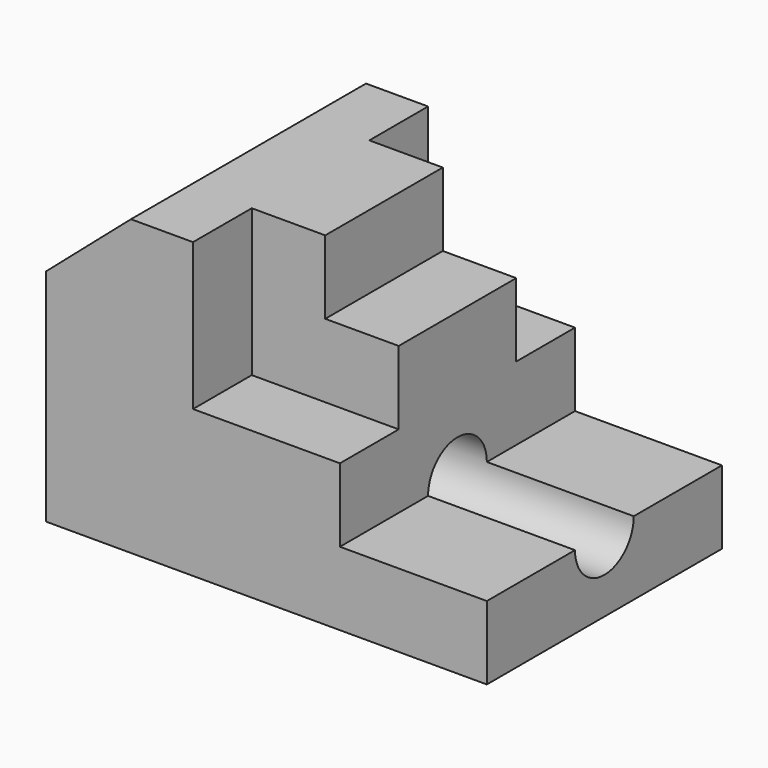
from build123d import *

# Parameters (mm, degrees)
F1_DEPTH = 50.8
F3_DEPTH = 12.7
F5_START = 38.1
F5_DEPTH = 12.701
F6_R     = 6.35
F7_DEPTH = 76.201


with BuildPart() as f1:
    # F0 (on Front) → F1 (new body)
    with BuildSketch(Plane.XZ):
        Polygon((0, 38.1), (0, 0), (76.2, 0), (76.2, 12.7), (50.8, 12.7), (50.8, 38.1), (38.1, 38.1), (38.1, 50.8), (14.6706935452, 50.8), align=None)
    extrude(amount=F1_DEPTH)

    # F2 (on Front) → F3 (cut)
    with BuildSketch(Plane.XZ):
        Polygon((38.1, 50.8), (25.4, 50.8), (25.4, 25.4), (50.8, 25.4), (50.8, 38.1), (38.1, 38.1), align=None)
    extrude(amount=F3_DEPTH, mode=Mode.SUBTRACT)

    # F4 (on Front) → F5 (cut)
    with BuildSketch(Plane.XZ.offset(F5_START)):
        Polygon((38.1, 50.8), (25.4, 50.8), (25.4, 25.4), (50.8, 25.4), (50.8, 38.1), (38.1, 38.1), align=None)
    extrude(amount=F5_DEPTH, mode=Mode.SUBTRACT)

    # F6 (on Right) → F7 (cut, through all)
    with BuildSketch(Plane.YZ):
        with Locations((-25.4, 12.7)):
            Circle(F6_R)
    extrude(amount=F7_DEPTH, mode=Mode.SUBTRACT)


solid = f1.part
